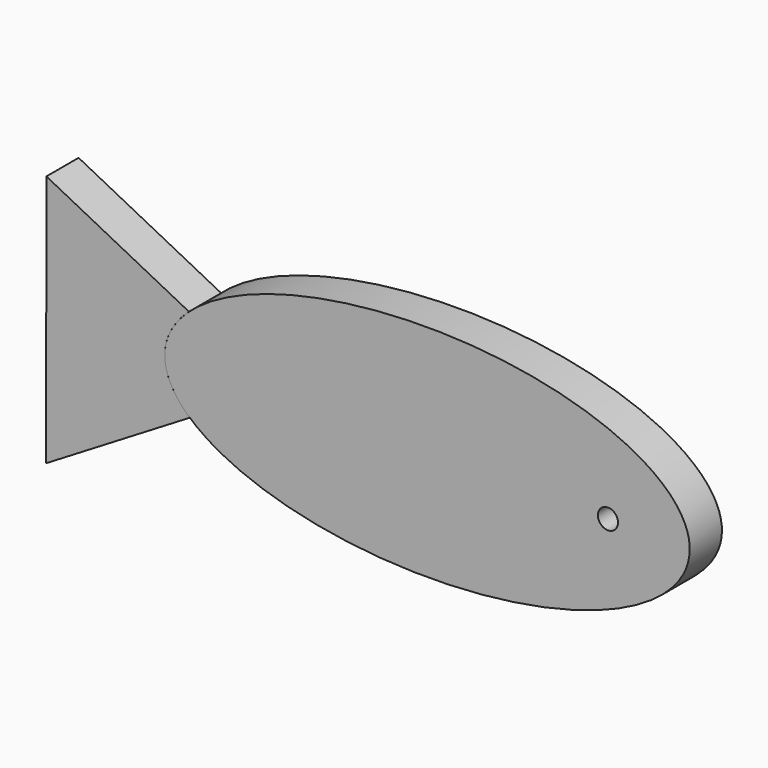
from build123d import *

# Parameters (mm, degrees)
F1_DEPTH = 12.7
F3_DEPTH = 12.7
F5_D     = 6.35


with BuildPart() as f1:
    # F0 (on Front) → F1 (new body)
    with BuildSketch(Plane.XZ):
        with BuildLine():
            add(Edge.make_bspline(
                [(-33.147573, 0), (-33.147573, -60.120834), (91.03287, -30.060417), (215.213314, 0), (91.03287, 30.060417), (-33.147573, 60.120834), (-33.147573, 0)],
                knots=[0, 0, 0, 2.094395, 2.094395, 4.18879, 4.18879, 6.283185, 6.283185, 6.283185], degree=2, weights=[1, 0.5, 1, 0.5, 1, 0.5, 1]))
        make_face()
    extrude(amount=F1_DEPTH)

    # F5 (through all)
    with Locations(Plane(origin=(0, 0, 0), x_dir=(-1, 0, 0), z_dir=(0, 1, 0))):
        with Locations((-106.631353, 0)):
            Hole(F5_D / 2)


with BuildPart() as f3:
    # F2 (on face) → F3 (new body)
    with BuildSketch(Plane.XZ.offset(12.7)):
        with BuildLine():
            Line((-70.470996, 37.506711), (-70.572965, -42.179909))
            Line((-70.572965, -42.179909), (-25.250212, -14.79541))
            add(Edge.make_bspline(
                [(-33.147573, 0), (-33.147573, -7.768225), (-25.250212, -14.79541)],
                knots=[0, 0, 0, 0.479304, 0.479304, 0.479304], degree=2, weights=[1, 0.885575, 0.823522]))
            add(Edge.make_bspline(
                [(-25.512194, 14.560014), (-33.147573, 7.631952), (-33.147573, 0)],
                knots=[5.811343, 5.811343, 5.811343, 6.283185, 6.283185, 6.283185], degree=2, weights=[0.825467, 0.887356, 1]))
            Line((-25.512194, 14.560014), (-70.470996, 37.506711))
        make_face()
    extrude(amount=-F3_DEPTH)


solid = Compound([f1.part, f3.part])
